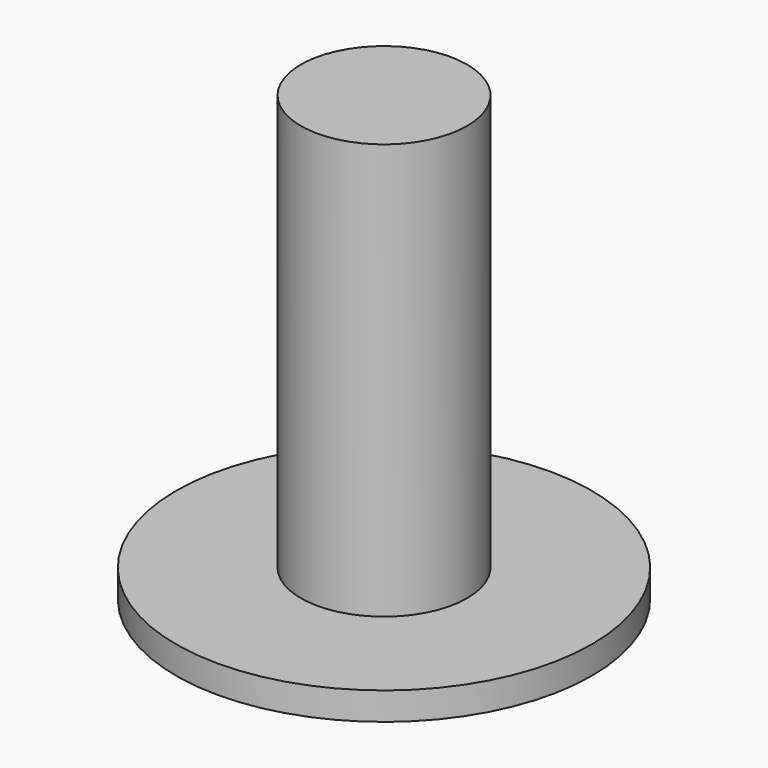
from build123d import *

# Parameters (mm, degrees)
CYLINDER002_R     = 3
CYLINDER002_DEPTH = 15
CYLINDER001_R     = 7.5
CYLINDER001_DEPTH = 1
CYLINDER_R        = 11.5
CYLINDER_DEPTH    = 40
SKETCH_R          = 1
POCKET_DEPTH      = 4
SKETCH001_R       = 23.34615
EXTRUDE_DEPTH     = 23


with BuildPart() as cylinder002:
    # Cylinder002 → Cylinder002 (new body)
    with BuildSketch(Plane.XY.offset(42)):
        Circle(CYLINDER002_R)
    extrude(amount=CYLINDER002_DEPTH)


with BuildPart() as cylinder001:
    # Cylinder001 → Cylinder001 (new body)
    with BuildSketch(Plane.XY.offset(41)):
        Circle(CYLINDER001_R)
    extrude(amount=CYLINDER001_DEPTH)


with BuildPart() as clone_of_pocket:
    # Cylinder → Cylinder (new body)
    with BuildSketch(Plane.XY.offset(1)):
        Circle(CYLINDER_R)
    extrude(amount=CYLINDER_DEPTH)

    # Fusion: union Cylinder002, Cylinder001
    add(cylinder002.part)
    add(cylinder001.part)

    # Sketch → Pocket (cut)
    with BuildSketch(Plane.XY.offset(41)):
        with Locations((8.227241, 4.75)):
            Circle(SKETCH_R)
        with Locations((-8.227241, 4.75)):
            Circle(SKETCH_R)
        with Locations((0, -9.5)):
            Circle(SKETCH_R)
    extrude(amount=-POCKET_DEPTH, mode=Mode.SUBTRACT)


with BuildPart() as common:
    # Sketch001 → Extrude (new body)
    with BuildSketch(Plane.XY.offset(41)):
        Circle(SKETCH001_R)
    extrude(amount=EXTRUDE_DEPTH)

    # Common: intersect Clone of Pocket
    add(clone_of_pocket.part, mode=Mode.INTERSECT)


solid = common.part
